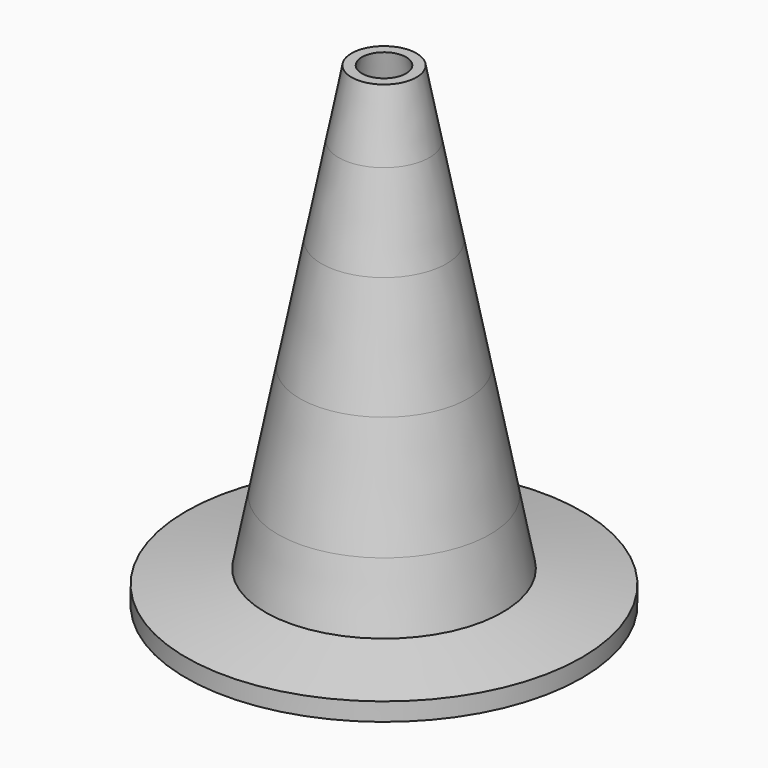
from build123d import *

# Parameters (mm, degrees)
F6_R     = 15
F7_DEPTH = 60.001
F7_TAPER = 11.5


with BuildPart() as f1:
    # F0 (on Front) → F1 (revolve)
    with BuildSketch(Plane.XZ):
        Polygon((-5.7397772641, 51.6), (0, 51.6), (0, 60), (-4.1069826674, 60), align=None)
    revolve(axis=Axis((0, 0, 30), (0, 0, -1)))


with BuildPart() as f2:
    # F0 (on Front) → F2 (revolve)
    with BuildSketch(Plane.XZ):
        Polygon((-7.8973986956, 40.5), (0, 40.5), (0, 51.6), (-5.7397772641, 51.6), align=None)
    revolve(axis=Axis((0, 0, 30), (0, 0, -1)))


with BuildPart() as f3:
    # F0 (on Front) → F3 (revolve)
    with BuildSketch(Plane.XZ):
        Polygon((-10.6381610544, 26.4), (0, 26.4), (0, 40.5), (-7.8973986956, 40.5), align=None)
    revolve(axis=Axis((0, 0, 30), (0, 0, -1)))


with BuildPart() as f4:
    # F0 (on Front) → F4 (revolve)
    with BuildSketch(Plane.XZ):
        Polygon((-13.4, 12.191570361), (0, 12.191570361), (0, 26.4), (-10.6381610544, 26.4), align=None)
    revolve(axis=Axis((0, 0, 30), (0, 0, -1)))


with BuildPart() as f5:
    # F0 (on Front) → F5 (revolve)
    with BuildSketch(Plane.XZ):
        Polygon((-25, 2.281), (-25, 0), (0, 0), (0, 12.191570361), (-13.4, 12.191570361), (-14.9830954039, 4.0472505435), align=None)
    revolve(axis=Axis((0, 0, 30), (0, 0, -1)))


with BuildPart() as f7_tool:
    # F6 (on face) → F7 (new body, through all)
    with BuildSketch(Plane(origin=(0, 0, 0), x_dir=(1, 0, 0), z_dir=(0, 0, -1))):
        Circle(F6_R)
    extrude(amount=-F7_DEPTH, taper=F7_TAPER)


with BuildPart() as f1_1:
    add(f1.part)

    # F7: cut by f7_tool
    add(f7_tool.part, mode=Mode.SUBTRACT)


with BuildPart() as f2_1:
    add(f2.part)

    # F7: cut by f7_tool
    add(f7_tool.part, mode=Mode.SUBTRACT)


with BuildPart() as f3_1:
    add(f3.part)

    # F7: cut by f7_tool
    add(f7_tool.part, mode=Mode.SUBTRACT)


with BuildPart() as f4_1:
    add(f4.part)

    # F7: cut by f7_tool
    add(f7_tool.part, mode=Mode.SUBTRACT)


with BuildPart() as f5_1:
    add(f5.part)

    # F7: cut by f7_tool
    add(f7_tool.part, mode=Mode.SUBTRACT)


solid = Compound([f1_1.part, f2_1.part, f3_1.part, f4_1.part, f5_1.part])
